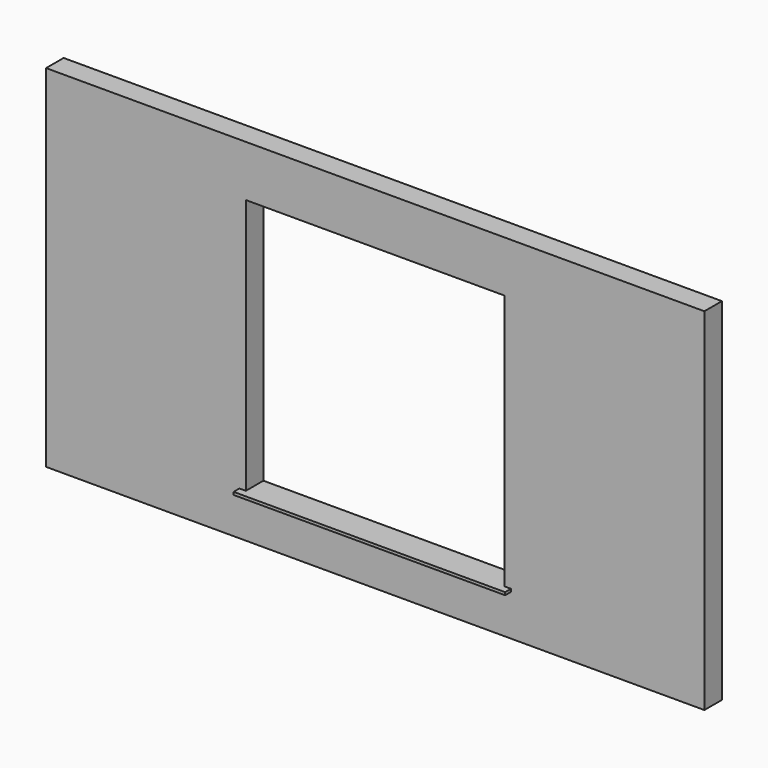
from build123d import *

# Parameters (mm, degrees)
F0_W     = 4572
F0_H     = 2438.4
F0_W_2   = 1797.05
F0_H_2   = 1778
F1_DEPTH = 152.4
F2_W     = 1885.95
F2_H     = 50.8
F3_DEPTH = 19.05


with BuildPart() as f1:
    # F0 (on Front) → F1 (new body)
    with BuildSketch(Plane.XZ):
        Rectangle(F0_W, F0_H)
        with Locations((0, -25.4)):
            Rectangle(F0_W_2, F0_H_2, mode=Mode.SUBTRACT)
    extrude(amount=F1_DEPTH)

    # F2 (on face) → F3 (join)
    with BuildSketch(Plane.XY.offset(-914.4)):
        with Locations((0, -177.8)):
            Rectangle(F2_W, F2_H)
    extrude(amount=-F3_DEPTH)


solid = f1.part
